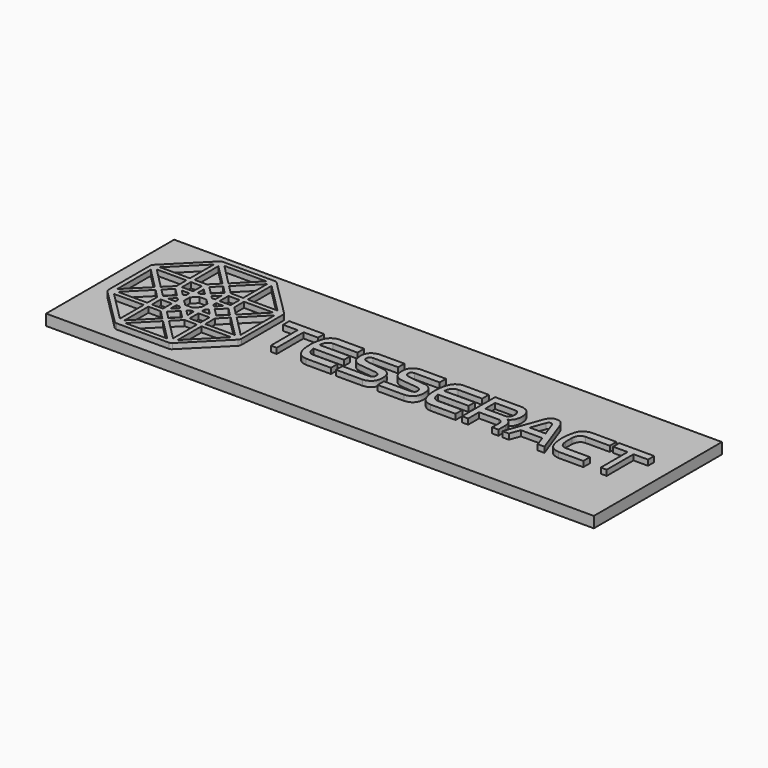
from build123d import *

# Parameters (mm, degrees)
F0_W     = 100
F0_H     = 29.2227778284
F1_DEPTH = 2
F2_W     = 2.0186528563
F2_H     = 2.018653322
F2_W_2   = 2.0163748413
F2_H_2   = 2.0190998912
F2_W_3   = 2.0199641585
F2_H_3   = 2.0242873579
F2_W_4   = 2.0192302763
F2_H_4   = 2.0192302763
F3_DEPTH = 1
F4_R     = 0.7


with BuildPart() as f1:
    # F0 (on Top) → F1 (new body)
    with BuildSketch(Plane.XY):
        with Locations((7.9463623826, 11.4885682264)):
            Rectangle(F0_W, F0_H)
    extrude(amount=-F1_DEPTH)

    # F2 (on face) → F3 (join)
    with BuildSketch(Plane.XY):
        Polygon((-5.9367739595, 15.2010433376), (-12.3171089217, 15.2010433376), (-12.3171089217, 13.7890018523), (-9.6682449803, 13.7890018523), (-9.6682449803, 7.6711033471), (-8.5810413584, 7.6711033471), (-8.5810413584, 13.7890018523), (-5.9367739595, 13.7890018523), align=None)
        with BuildLine():
            Line((-3.0983316246, 13.7000186369), (1.3362555765, 13.7000186369))
            Line((1.3362555765, 13.7000186369), (1.3362555765, 15.217371285))
            Line((1.3362555765, 15.217371285), (-3.0983316246, 15.217371285))
            add(Edge.make_bspline(
                [(-3.2255935948, 7.6697627082), (-3.4431958835, 7.6921953618), (-3.9239609326, 7.7417575049), (-4.8323551907, 8.3137191664), (-5.4061105587, 9.7220068584), (-5.513504843, 11.499186724), (-5.405641117, 12.808304373), (-4.9831590462, 14.2872181019), (-4.3727496999, 14.8620063542), (-3.6907689814, 15.2053940956), (-3.2882803801, 15.2135311284), (-3.0983316246, 15.217371285)],
                knots=[0, 0, 0, 0, 0.0887944988, 0.1961803426, 0.327836819, 0.4713311051, 0.5974230268, 0.7283531377, 0.8258616454, 0.917817887, 1, 1, 1, 1], degree=3))
            Line((-3.2255935948, 7.6697627082), (1.3166768476, 7.6697627082))
            Line((1.3166768476, 7.6697627082), (1.3166768476, 9.2164846137))
            Line((1.3166768476, 9.2164846137), (-3.2255935948, 9.2164846137))
            add(Edge.make_bspline(
                [(-3.2255935948, 9.2164846137), (-3.3624554515, 9.2359156477), (-3.6678166496, 9.2792755303), (-4.1889665207, 9.768505452), (-4.3239469617, 10.3653285576), (-4.3611610308, 10.7534164563)],
                knots=[0, 0, 0, 0, 0.1049776413, 0.2341785183, 0.3963254475, 0.3963254475, 0.3963254475, 0.3963254475], degree=3))
            add(Edge.make_bspline(
                [(-4.3611610308, 10.7534164563), (-4.405039218, 11.211001285), (-4.3962169394, 11.7463431343), (-4.3611610308, 12.1630867943)],
                knots=[0.3963254475, 0.3963254475, 0.3963254475, 0.3963254475, 0.5875088755, 0.5875088755, 0.5875088755, 0.5875088755], degree=3))
            add(Edge.make_bspline(
                [(-4.3611610308, 12.1630867943), (-4.3347418099, 12.4771577534), (-4.2571564052, 12.9404145851), (-3.8304997833, 13.5158493), (-3.4899066668, 13.6706503108), (-3.0983316246, 13.7000186369)],
                knots=[0.5875088755, 0.5875088755, 0.5875088755, 0.5875088755, 0.7315906418, 0.8580545847, 1, 1, 1, 1], degree=3))
        make_face()
        with BuildLine():
            Line((1.2285725679, 12.1630867943), (-4.3611610308, 12.1630867943))
            add(Edge.make_bspline(
                [(-4.3611610308, 10.7534164563), (-4.405039218, 11.211001285), (-4.3962169394, 11.7463431343), (-4.3611610308, 12.1630867943)],
                knots=[0.3963254475, 0.3963254475, 0.3963254475, 0.3963254475, 0.5875088755, 0.5875088755, 0.5875088755, 0.5875088755], degree=3))
            Line((-4.3611610308, 10.7534164563), (1.2285725679, 10.7534164563))
            Line((1.2285725679, 10.7534164563), (1.2285725679, 12.1630867943))
        make_face()
        with BuildLine():
            Line((4.0900926106, 13.78804259), (8.6910994723, 13.78804259))
            Line((8.6910994723, 13.78804259), (8.6910994723, 15.2172921225))
            Line((8.6910994723, 15.2172921225), (4.0900926106, 15.2172921225))
            add(Edge.make_bspline(
                [(7.0660626516, 9.0793529525), (7.2303622852, 9.1016366467), (7.5374819273, 9.1432907881), (7.8672130508, 9.3831708171), (7.8878279838, 9.8703224505), (7.830141337, 10.3331712204), (7.2276705262, 10.5946684431), (6.982069777, 10.6322841108), (3.6762785316, 10.9287891041), (3.2958884031, 11.1400561783), (2.7487468487, 11.5222050466), (2.4504401892, 12.0071443443), (2.304577142, 12.7918712836), (2.2750363767, 13.4038336721), (2.4238330056, 14.1467515075), (2.82600628, 14.7058425815), (3.4167468509, 15.0893467875), (3.8656677825, 15.174648192), (4.0900926106, 15.2172921225)],
                knots=[0, 0, 0, 0, 0.053120104, 0.0992955794, 0.1512814609, 0.202519353, 0.2593577716, 0.3047010598, 0.4421874871, 0.4982596998, 0.5571003486, 0.6154857525, 0.6831891668, 0.7441347542, 0.8098424302, 0.873078664, 0.9365494077, 1, 1, 1, 1], degree=3))
            Line((7.0660626516, 9.0793529525), (2.2692685015, 9.0793529525))
            Line((2.2692685015, 9.0793529525), (2.2692685015, 7.6501038857))
            Line((2.2692685015, 7.6501038857), (7.0660626516, 7.6501038857))
            add(Edge.make_bspline(
                [(7.0660626516, 7.6501038857), (7.2654719232, 7.6729561608), (7.6829957539, 7.7208043344), (8.3675074128, 8.0455123646), (8.8395222888, 8.6491041597), (9.0497176936, 9.4143064584), (8.9990086337, 10.3819928352), (8.8984864543, 10.9337680718), (8.4794435575, 11.5300840822), (7.869051712, 11.9005811217), (7.4248554538, 12.0750296565), (4.1866625984, 12.3336351782), (3.6133060724, 12.5611707174), (3.420161351, 12.9277551397), (3.4066877864, 13.3221602204), (3.5971685209, 13.714363064), (3.9200682139, 13.7626282976), (4.0900926106, 13.78804259)],
                knots=[0, 0, 0, 0, 0.062212049, 0.1302598058, 0.1983263004, 0.269106952, 0.3465178815, 0.4059082589, 0.4726632192, 0.5366810618, 0.595026608, 0.7371857994, 0.7998076844, 0.846568137, 0.8960024941, 0.9452396098, 1, 1, 1, 1], degree=3))
        make_face()
        with BuildLine():
            Line((11.6406617321, 13.8343983592), (16.2416685939, 13.8343983592))
            Line((16.2416685939, 13.8343983592), (16.2416685939, 15.2636478917))
            Line((16.2416685939, 15.2636478917), (11.6406617321, 15.2636478917))
            add(Edge.make_bspline(
                [(14.6166317731, 9.1257087217), (14.7809314068, 9.1479924159), (15.0880510488, 9.1896465573), (15.4177821723, 9.4295265863), (15.4383971053, 9.9166782196), (15.3807104585, 10.3795269895), (14.7782396478, 10.6410242123), (14.5326388985, 10.6786398799), (11.2268476531, 10.9751448733), (10.8464575246, 11.1864119475), (10.2993159702, 11.5685608157), (10.0010093108, 12.0535001135), (9.8551462635, 12.8382270528), (9.8256054983, 13.4501894413), (9.9744021271, 14.1931072766), (10.3765754015, 14.7521983507), (10.9673159724, 15.1357025566), (11.416236904, 15.2210039611), (11.6406617321, 15.2636478917)],
                knots=[0, 0, 0, 0, 0.053120104, 0.0992955794, 0.1512814609, 0.202519353, 0.2593577716, 0.3047010598, 0.4421874871, 0.4982596998, 0.5571003486, 0.6154857525, 0.6831891668, 0.7441347542, 0.8098424302, 0.873078664, 0.9365494077, 1, 1, 1, 1], degree=3))
            Line((14.6166317731, 9.1257087217), (9.8198376231, 9.1257087217))
            Line((9.8198376231, 9.1257087217), (9.8198376231, 7.6964596549))
            Line((9.8198376231, 7.6964596549), (14.6166317731, 7.6964596549))
            add(Edge.make_bspline(
                [(14.6166317731, 7.6964596549), (14.8160410447, 7.71931193), (15.2335648754, 7.7671601035), (15.9180765343, 8.0918681338), (16.3900914103, 8.6954599289), (16.6002868151, 9.4606622276), (16.5495777552, 10.4283486044), (16.4490555758, 10.980123841), (16.030012679, 11.5764398514), (15.4196208336, 11.9469368909), (14.9754245753, 12.1213854256), (11.73723172, 12.3799909474), (11.163875194, 12.6075264866), (10.9707304726, 12.9741109089), (10.9572569079, 13.3685159896), (11.1477376424, 13.7607188332), (11.4706373354, 13.8089840668), (11.6406617321, 13.8343983592)],
                knots=[0, 0, 0, 0, 0.062212049, 0.1302598058, 0.1983263004, 0.269106952, 0.3465178815, 0.4059082589, 0.4726632192, 0.5366810618, 0.595026608, 0.7371857994, 0.7998076844, 0.846568137, 0.8960024941, 0.9452396098, 1, 1, 1, 1], degree=3))
        make_face()
        with BuildLine():
            Line((19.6547170995, 13.705541018), (24.0893043006, 13.705541018))
            Line((24.0893043006, 13.705541018), (24.0893043006, 15.222893666))
            Line((24.0893043006, 15.222893666), (19.6547170995, 15.222893666))
            add(Edge.make_bspline(
                [(19.5274551293, 7.6752850893), (19.3098528406, 7.6977177429), (18.8290877915, 7.747279886), (17.9206935334, 8.3192415475), (17.3469381654, 9.7275292395), (17.2395438811, 11.5047091051), (17.3474076071, 12.8138267541), (17.7698896779, 14.292740483), (18.3802990242, 14.8675287353), (19.0622797427, 15.2109164767), (19.464768344, 15.2190535095), (19.6547170995, 15.222893666)],
                knots=[0, 0, 0, 0, 0.0887944988, 0.1961803426, 0.327836819, 0.4713311051, 0.5974230268, 0.7283531377, 0.8258616454, 0.917817887, 1, 1, 1, 1], degree=3))
            Line((19.5274551293, 7.6752850893), (24.0697255717, 7.6752850893))
            Line((24.0697255717, 7.6752850893), (24.0697255717, 9.2036767039))
            Line((24.0697255717, 9.2036767039), (19.5274551293, 9.2036767039))
            add(Edge.make_bspline(
                [(19.5274551293, 9.2036767039), (19.389873885, 9.2232098733), (19.0873657492, 9.2942608995), (18.5635902745, 9.7702285021), (18.429013775, 10.3701592522), (18.3918876933, 10.7589388374)],
                knots=[0, 0, 0, 0, 0.1055294357, 0.2346506584, 0.3966976217, 0.3966976217, 0.3966976217, 0.3966976217], degree=3))
            add(Edge.make_bspline(
                [(18.3918876933, 10.7589388374), (18.3481132499, 11.2173392165), (18.3568490591, 11.7520537858), (18.3918876933, 12.1686091754)],
                knots=[0.3966976217, 0.3966976217, 0.3966976217, 0.3966976217, 0.5877631824, 0.5877631824, 0.5877631824, 0.5877631824], degree=3))
            add(Edge.make_bspline(
                [(18.3918876933, 12.1686091754), (18.4182938957, 12.482538248), (18.4959286497, 12.9459968471), (18.922447933, 13.5213466541), (19.263383469, 13.6761907979), (19.6547170995, 13.705541018)],
                knots=[0.5877631824, 0.5877631824, 0.5877631824, 0.5877631824, 0.7317561201, 0.8581420961, 1, 1, 1, 1], degree=3))
        make_face()
        with BuildLine():
            Line((23.981621292, 12.1686091754), (18.3918876933, 12.1686091754))
            add(Edge.make_bspline(
                [(18.3918876933, 10.7589388374), (18.3481132499, 11.2173392165), (18.3568490591, 11.7520537858), (18.3918876933, 12.1686091754)],
                knots=[0.3966976217, 0.3966976217, 0.3966976217, 0.3966976217, 0.5877631824, 0.5877631824, 0.5877631824, 0.5877631824], degree=3))
            Line((18.3918876933, 10.7589388374), (23.981621292, 10.7589388374))
            Line((23.981621292, 10.7589388374), (23.981621292, 12.1686091754))
        make_face()
        Polygon((54.3103798991, 15.191246639), (47.9300449369, 15.191246639), (47.9300449369, 13.7792051537), (50.5789088784, 13.7792051537), (50.5789088784, 7.6613066485), (51.6661125002, 7.6613066485), (51.6661125002, 13.7792051537), (54.3103798991, 13.7792051537), align=None)
        with BuildLine():
            Line((25.2546779811, 15.2172585949), (25.2546779811, 7.6686511748))
            Line((25.2546779811, 7.6686511748), (26.3659786433, 7.6686511748))
            Line((26.3659786433, 7.6686511748), (26.3659786433, 10.1464390755))
            Line((26.3659786433, 10.1464390755), (29.9056731164, 10.1464390755))
            add(Edge.make_bspline(
                [(29.9056731164, 10.1464390755), (30.0184087545, 10.1423013051), (30.233794606, 10.1331401189), (30.4487208556, 9.9716227264), (30.6484249601, 9.75166516), (30.7077560629, 9.5576607685), (30.7166221489, 9.4135746004), (30.7315699756, 9.3648964539)],
                knots=[0, 0, 0, 0, 0.2266899929, 0.4315167579, 0.6465693602, 0.8275880218, 1, 1, 1, 1], degree=3))
            Line((30.7315699756, 9.3648964539), (30.7315699756, 7.6845041476))
            Line((30.7315699756, 7.6845041476), (31.8663790822, 7.6845041476))
            Line((31.8663790822, 7.6845041476), (31.8663790822, 9.3648964539))
            add(Edge.make_bspline(
                [(30.925642699, 10.8781848103), (30.9918872305, 10.8468625649), (31.149114224, 10.7728182414), (31.3805901907, 10.5753172645), (31.6545343788, 10.233916661), (31.7736491933, 9.8726249001), (31.8394791511, 9.65479084), (31.8722110148, 9.4637815555), (31.8656603209, 9.4104397865), (31.8663790822, 9.3648964539)],
                knots=[0, 0, 0, 0, 0.1375892384, 0.2934240967, 0.4806971899, 0.6544601133, 0.7906362938, 0.9091823636, 1, 1, 1, 1], degree=3))
            add(Edge.make_bspline(
                [(30.925642699, 10.8781848103), (31.0559301079, 10.9413587423), (31.3369467152, 11.0776184485), (31.7326136886, 11.5529287884), (31.9743835527, 12.1884743018), (32.0217648843, 12.9839532894), (31.9243033386, 13.75099728), (31.6573840252, 14.4038279847), (31.1534735421, 14.9380656332), (30.5661781632, 15.1359318419), (30.3105458293, 15.2007490309), (30.0742158681, 15.2114764879), (29.946833849, 15.2172585949)],
                knots=[0, 0, 0, 0, 0.0878655504, 0.1895169999, 0.2977668124, 0.4150020744, 0.5305500506, 0.6401919305, 0.7524876681, 0.8538520345, 0.9212261414, 1, 1, 1, 1], degree=3))
            Line((29.946833849, 15.2172585949), (26.3659786433, 15.2172585949))
            Line((26.3659786433, 15.2172585949), (25.2546779811, 15.2172585949))
        make_face()
        with BuildLine():
            Line((29.9056731164, 11.5705486387), (26.3659786433, 11.5705486387))
            Line((26.3659786433, 11.5705486387), (26.3659786433, 13.8343079016))
            Line((26.3659786433, 13.8343079016), (29.946833849, 13.8343079016))
            add(Edge.make_bspline(
                [(29.946833849, 13.8343079016), (30.1033942537, 13.8189274888), (30.4145741568, 13.7883573371), (30.734914964, 13.4303433641), (30.9374522857, 12.718792301), (30.7674042001, 11.9856761208), (30.3978936309, 11.5987637185), (30.0689833244, 11.5799099116), (29.9056731164, 11.5705486387)],
                knots=[0, 0, 0, 0, 0.1515168472, 0.3011553137, 0.4935872784, 0.6874594188, 0.8448176712, 1, 1, 1, 1], degree=3))
        make_face(mode=Mode.SUBTRACT)
        with BuildLine():
            Line((34.9673852324, 14.1969034448), (32.623257488, 7.6726037078))
            Line((32.623257488, 7.6726037078), (33.8010936975, 7.6726037078))
            Line((33.8010936975, 7.6726037078), (34.4823934138, 9.5490617678))
            Line((34.4823934138, 9.5490617678), (38.4027473629, 9.5490617678))
            Line((38.4027473629, 9.5490617678), (39.0609502792, 7.6726037078))
            Line((39.0609502792, 7.6726037078), (40.2965284884, 7.6726037078))
            Line((40.2965284884, 7.6726037078), (37.9119813442, 14.1969034448))
            add(Edge.make_bspline(
                [(34.9673852324, 14.1969034448), (35.0476778264, 14.361322858), (35.2093091782, 14.6923039696), (35.6295342069, 15.125479827), (35.9698032213, 15.3125906502), (36.8565501324, 15.3399218223), (37.2988112535, 15.0861756855), (37.6823073357, 14.6605519682), (37.8361741984, 14.3499371792), (37.9119813442, 14.1969034448)],
                knots=[0, 0, 0, 0, 0.1430536838, 0.2879712702, 0.4079345517, 0.583306727, 0.7202853167, 0.8621901337, 1, 1, 1, 1], degree=3))
        make_face()
        with BuildLine():
            Line((37.8793030977, 10.9487716109), (34.9759124219, 10.9487716109))
            Line((34.9759124219, 10.9487716109), (35.9091423452, 13.5021973401))
            add(Edge.make_bspline(
                [(35.9091423452, 13.5021973401), (35.9514745507, 13.5968916056), (36.0320123658, 13.7770492222), (36.2511477507, 13.9278160191), (36.4243164012, 13.9467658682), (36.6808393813, 13.9312045169), (36.8506896303, 13.6998939311), (36.9196902228, 13.5659705409), (36.952547729, 13.5021973401)],
                knots=[0, 0, 0, 0, 0.1869399502, 0.3556567625, 0.4967121058, 0.662129204, 0.8391087468, 1, 1, 1, 1], degree=3))
            Line((36.952547729, 13.5021973401), (37.8793030977, 10.9487716109))
        make_face(mode=Mode.SUBTRACT)
        with BuildLine():
            Line((42.9498088505, 13.7151601965), (47.3843960516, 13.7151601965))
            Line((47.3843960516, 13.7151601965), (47.3843960516, 15.2325128445))
            Line((47.3843960516, 15.2325128445), (42.9661330726, 15.2325128445))
            add(Edge.make_bspline(
                [(42.8143773187, 7.6849042678), (42.6077621261, 7.7062042599), (42.1992464674, 7.7581794331), (41.2062571257, 8.2299677136), (40.6681301494, 9.6715619499), (40.543166867, 11.4391053841), (40.6783616705, 12.7499707759), (41.0177278188, 14.2428327272), (41.6828234832, 14.8638315942), (42.3305437853, 15.1581425233), (42.7687893842, 15.2285231861), (42.9661330726, 15.2325128445)],
                knots=[0, 0, 0, 0, 0.084311119, 0.191915149, 0.3236259345, 0.4671794129, 0.5933233483, 0.7243294846, 0.8247245336, 0.9146184387, 1, 1, 1, 1], degree=3))
            Line((42.8143773187, 7.6849042678), (47.3648173228, 7.6849042678))
            Line((47.3648173228, 7.6849042678), (47.3648173228, 9.2132958824))
            Line((47.3648173228, 9.2132958824), (42.8225468803, 9.2132958824))
            add(Edge.make_bspline(
                [(42.8225468803, 9.2132958824), (42.6849656361, 9.2328290518), (42.3824575003, 9.303880078), (41.8586820255, 9.7798476805), (41.7241055261, 10.3797784307), (41.6869794443, 10.7685580159)],
                knots=[0, 0, 0, 0, 0.1055294357, 0.2346506584, 0.3966976217, 0.3966976217, 0.3966976217, 0.3966976217], degree=3))
            add(Edge.make_bspline(
                [(41.6869794443, 10.7685580159), (41.6432050009, 11.226958395), (41.6519408101, 11.7616729643), (41.6869794443, 12.1782283539)],
                knots=[0.3966976217, 0.3966976217, 0.3966976217, 0.3966976217, 0.5877631824, 0.5877631824, 0.5877631824, 0.5877631824], degree=3))
            add(Edge.make_bspline(
                [(41.6869794443, 12.1782283539), (41.7133856468, 12.4921574265), (41.7910204007, 12.9556160256), (42.217539684, 13.5309658326), (42.5584752201, 13.6858099764), (42.9498088505, 13.7151601965)],
                knots=[0.5877631824, 0.5877631824, 0.5877631824, 0.5877631824, 0.7317561201, 0.8581420961, 1, 1, 1, 1], degree=3))
        make_face()
        with BuildLine():
            add(Edge.make_bspline(
                [(41.6869794443, 10.7685580159), (41.6729456927, 10.9914606237), (41.6751470017, 11.388133631), (41.6714068463, 11.931255903), (41.6869794443, 12.1782283539)],
                knots=[0, 0, 0, 0, 0.4740796085, 1, 1, 1, 1], degree=3))
            add(Edge.make_bspline(
                [(41.6869794443, 10.7685580159), (41.6432050009, 11.226958395), (41.6519408101, 11.7616729643), (41.6869794443, 12.1782283539)],
                knots=[0.3966976217, 0.3966976217, 0.3966976217, 0.3966976217, 0.5877631824, 0.5877631824, 0.5877631824, 0.5877631824], degree=3))
        make_face()
        Polygon((-38.5070107877, 16.4927666614), (-38.5070107877, 6.3885531544), (-31.4231314693, -0.6881302688), (-21.3150513199, -0.6881302688), (-14.2639009282, 6.3919550977), (-14.2639009282, 16.4947623253), (-21.3770731914, 23.5826224089), (-31.4248549202, 23.5826224089), align=None)
        Polygon((-22.537747398, 0.1400117762), (-30.2131008357, 0.1400117762), (-26.3754241168, 3.9695228916), align=None, mode=Mode.SUBTRACT)
        Polygon((-31.6501893103, 6.1578149907), (-31.6501893103, 0.7197457016), (-37.0800942183, 6.1578149907), align=None, mode=Mode.SUBTRACT)
        Polygon((-26.9796550274, 4.573752638), (-30.8091677725, 0.7279110723), (-30.8091677725, 6.1578149907), (-28.5637173802, 6.1578149907), align=None, mode=Mode.SUBTRACT)
        Polygon((-25.7793590426, 4.5655877329), (-24.1952966899, 6.1578154564), (-21.9335183501, 6.1578154564), (-21.9335183501, 0.7034155424), align=None, mode=Mode.SUBTRACT)
        Polygon((-15.6952533871, 6.1578154564), (-21.100660786, 0.7197461673), (-21.100660786, 6.1578154564), align=None, mode=Mode.SUBTRACT)
        with Locations((-29.8030972481, 7.9890938941)):
            Rectangle(F2_W, F2_H, mode=Mode.SUBTRACT)
        Polygon((-26.9814617932, 8.5815503262), (-27.9763042927, 7.578057237), (-27.9763042927, 9.0140905231), (-27.3837242275, 9.0140905231), align=None, mode=Mode.SUBTRACT)
        Polygon((-27.7697183318, 6.5817856266), (-26.3725928962, 7.9919663258), (-24.9625109136, 6.5689096227), (-26.3725325861, 5.1717438238), align=None, mode=Mode.SUBTRACT)
        Polygon((-25.7876515388, 8.5815503262), (-25.3680888563, 9.00111394), (-24.792810902, 9.00111394), (-24.792810902, 7.5867082924), align=None, mode=Mode.SUBTRACT)
        with Locations((-22.9405546561, 7.9981009476)):
            Rectangle(F2_W_2, F2_H_2, mode=Mode.SUBTRACT)
        Polygon((-31.666520983, 6.9988374598), (-37.0637625456, 6.9988374598), (-33.2342498004, 10.836513713), (-31.666520983, 9.2361215502), align=None, mode=Mode.SUBTRACT)
        Polygon((-33.8548123837, 11.4407427609), (-37.6679934561, 7.603067439), (-37.6679934561, 15.2865843847), align=None, mode=Mode.SUBTRACT)
        Polygon((-28.8054309785, 9.843130596), (-30.2155110985, 9.843130596), (-29.2120184749, 10.8293220401), (-28.8054309785, 10.4270596057), align=None, mode=Mode.SUBTRACT)
        Polygon((-31.2319807708, 10.0161470473), (-32.6377376914, 11.4392032847), (-31.2190067088, 12.8491771394), (-29.8090053011, 11.421824182), align=None, mode=Mode.SUBTRACT)
        Polygon((-21.1088266224, 7.0151686668), (-21.1088266224, 9.2361215502), (-19.5165984333, 10.8446795493), (-15.6707577407, 7.0151686668), align=None, mode=Mode.SUBTRACT)
        Polygon((-23.9600129426, 9.8435152322), (-23.9600129426, 10.4408701882), (-23.5274452716, 10.8459722251), (-22.5455872715, 9.8435152322), align=None, mode=Mode.SUBTRACT)
        Polygon((-27.0371458234, 9.8490873352), (-27.9823783785, 10.779786855), (-27.9720909894, 12.0914550498), (-27.0116217434, 13.0366776139), (-25.7070530206, 13.0366776139), (-24.7869901359, 12.1028814465), (-24.7869901359, 10.7708498836), (-25.7366849975, 9.8490873352), align=None, mode=Mode.SUBTRACT)
        Polygon((-21.5156655759, 10.0289015099), (-22.936956957, 11.4570595324), (-21.5191146697, 12.8336553278), (-20.1150378132, 11.4227949979), align=None, mode=Mode.SUBTRACT)
        Polygon((-18.9205352217, 11.4407436922), (-15.0746926665, 15.2947511524), (-15.0746926665, 7.5704068877), align=None, mode=Mode.SUBTRACT)
        Polygon((-29.2076934129, 12.0361084118), (-30.2068609744, 13.0222998559), (-28.8184080273, 13.0222998559), (-28.8184080273, 12.4297197908), align=None, mode=Mode.SUBTRACT)
        Polygon((-33.2424156368, 12.0286419988), (-37.0555967093, 15.8744836226), (-31.642023474, 15.8744836226), (-31.642023474, 13.6208692566), align=None, mode=Mode.SUBTRACT)
        Polygon((-23.5343109816, 12.0269497856), (-23.9531472325, 12.4389184639), (-23.9531472325, 13.0362724885), (-22.5455872715, 13.0362724885), align=None, mode=Mode.SUBTRACT)
        Polygon((-19.5232238621, 12.0382951573), (-21.1093034595, 13.6243747547), (-21.1093034595, 15.8627387136), (-15.7193783671, 15.8627387136), align=None, mode=Mode.SUBTRACT)
        with Locations((-29.805265367, 14.8562379181)):
            Rectangle(F2_W_3, F2_H_3, mode=Mode.SUBTRACT)
        Polygon((-27.3810084909, 13.8597441837), (-27.973331511, 13.8597441837), (-27.9776185126, 15.2583617076), (-26.9731804729, 14.277282171), align=None, mode=Mode.SUBTRACT)
        Polygon((-24.7774105519, 13.8592617586), (-25.3741499037, 13.8592617586), (-25.782873854, 14.2816109583), (-24.7774105519, 15.2816241607), align=None, mode=Mode.SUBTRACT)
        with Locations((-22.9412112385, 14.8576870561)):
            Rectangle(F2_W_4, F2_H_4, mode=Mode.SUBTRACT)
        Polygon((-26.3826772571, 14.8774133995), (-27.8007107404, 16.3032594404), (-26.3806659602, 17.7078148977), (-24.9664866946, 16.2858443091), align=None, mode=Mode.SUBTRACT)
        Polygon((-31.6419713199, 16.7004084215), (-37.0860851116, 16.7004084215), (-31.6419713199, 22.1504411768), align=None, mode=Mode.SUBTRACT)
        Polygon((-30.8180339634, 16.7278731242), (-30.8180339634, 22.145261988), (-26.9867256284, 18.313953653), (-28.5796709359, 16.7278731242), align=None, mode=Mode.SUBTRACT)
        Polygon((-25.7782824337, 18.2933546603), (-21.933240816, 22.1521276981), (-21.933240816, 16.7004084215), (-24.1853371263, 16.7004084215), align=None, mode=Mode.SUBTRACT)
        Polygon((-21.1093034595, 16.7141407728), (-21.1093034595, 22.145261988), (-15.6781822443, 16.7141407728), align=None, mode=Mode.SUBTRACT)
        Polygon((-26.375638321, 18.8907086849), (-30.2138142288, 22.7632150054), (-22.551195696, 22.7632150054), align=None, mode=Mode.SUBTRACT)
    extrude(amount=F3_DEPTH)

    # F4
    f4_edges = [f1.edges().sort_by_distance(p)[0] for p in [
        (-14.263901, 16.494762, 0.5),
        (-14.263901, 6.391955, 0.5),
        (-21.315051, -0.68813, 0.5),
        (-31.423131, -0.68813, 0.5),
        (-38.507011, 6.388553, 0.5),
        (-21.377073, 23.582622, 0.5),
        (-31.424855, 23.582622, 0.5),
        (-38.507011, 16.492767, 0.5),
    ]]
    fillet(f4_edges, radius=F4_R)


solid = f1.part
